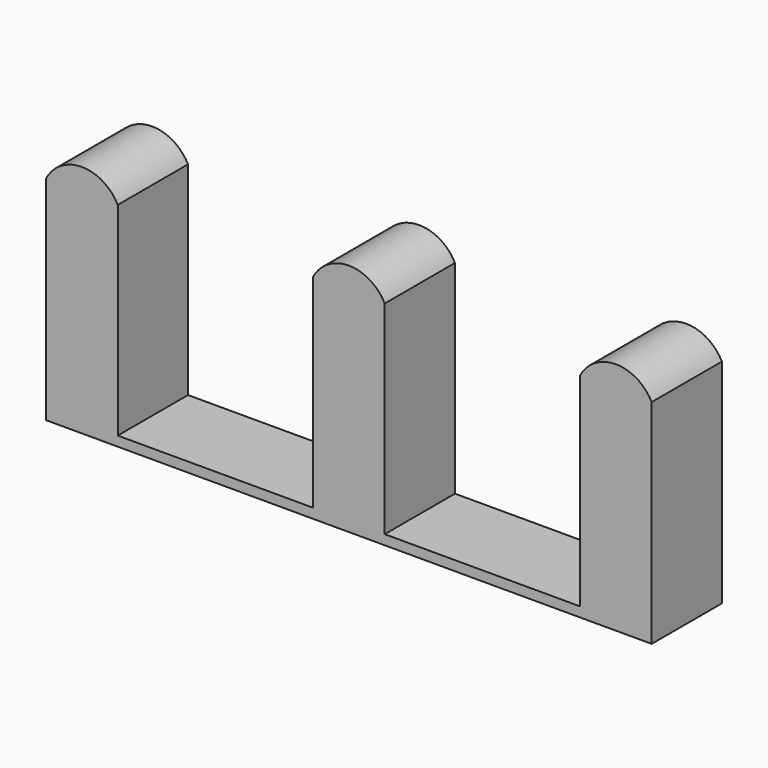
from build123d import *

# Parameters (mm, degrees)
F1_DEPTH = 25


with BuildPart() as f1:
    # F0 (on Front) → F1 (new body)
    with BuildSketch(Plane.XZ):
        with BuildLine():
            Line((-76.222397, 57.823889), (-76.222397, 0))
            Line((-76.222397, 0), (-55.813961, 0))
            Line((-55.813961, 0), (-55.813961, 57.823889))
            ThreePointArc((-55.813961, 57.823889), (-66.018179, 64.008258), (-76.222397, 57.823889))
        make_face()
        with BuildLine():
            Line((-0.222397, 57.823889), (-0.222397, 0))
            Line((-0.222397, 0), (20.186039, 0))
            Line((20.186039, 0), (20.186039, 57.823889))
            ThreePointArc((20.186039, 57.823889), (9.981821, 64.008258), (-0.222397, 57.823889))
        make_face()
        with BuildLine():
            Line((75.777603, 0), (96.186039, 0))
            Line((96.186039, 0), (96.186039, 57.823889))
            ThreePointArc((96.186039, 57.823889), (85.981821, 64.008258), (75.777603, 57.823889))
            Line((75.777603, 57.823889), (75.777603, 0))
        make_face()
        Polygon((-55.813961, 0), (-76.222397, 0), (-76.222397, -2.782966), (96.186039, -2.782966), (96.186039, 0), (75.777603, 0), (65.26417, 0), (20.186039, 0), (-0.222397, 0), (-10.73583, 0), align=None)
    extrude(amount=F1_DEPTH)


solid = f1.part
